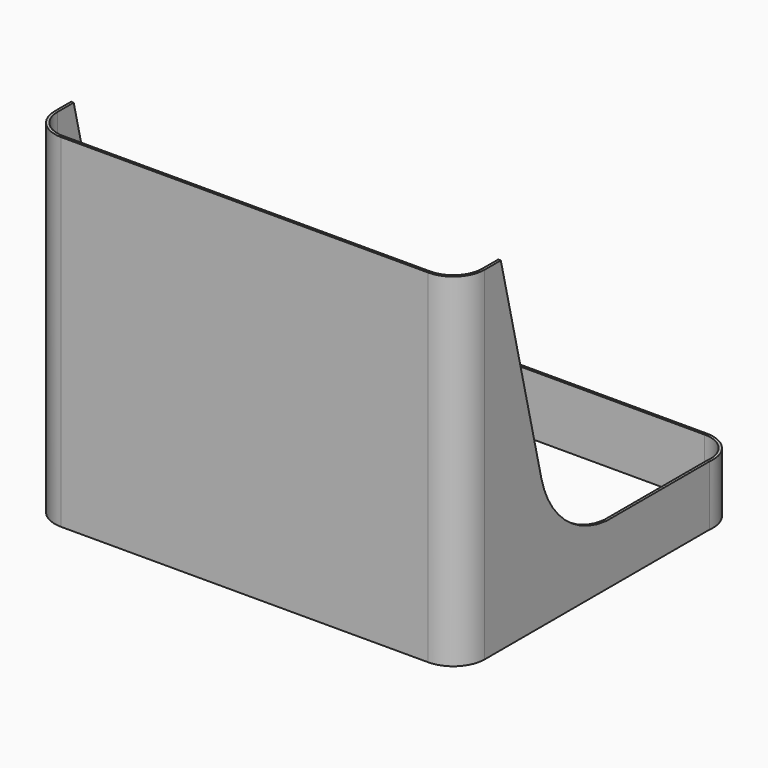
from build123d import *

# Parameters (mm, degrees)
F1_DEPTH = 400
F3_DEPTH = 550
F4_DEPTH = 330


with BuildPart() as f1:
    # F0 (on Top) → F1 (new body)
    with BuildSketch(Plane.XY):
        with BuildLine():
            Line((214.4711060817, 211.0624126145), (-213.2998602418, 211.0624126145))
            ThreePointArc((-213.2998602418, 211.0624126145), (-241.0972159396, 198.6720372021), (-249.9143754115, 169.5434930316))
            Line((-249.9143754115, 169.5434930316), (-249.9143754115, -158.3375933319))
            ThreePointArc((-249.9143754115, -158.3375933319), (-239.1857706386, -184.2264108639), (-213.289735862, -194.9375833684))
            Line((-213.289735862, -194.9375833684), (214.510264138, -194.6495638067))
            ThreePointArc((214.510264138, -194.6495638067), (240.3744404519, -183.9209673287), (251.0856212514, -158.0495737702))
            Line((251.0856212514, -158.0495737702), (251.0856212514, 169.5434930316))
            ThreePointArc((251.0856212514, 169.5434930316), (242.2684617794, 198.6720372021), (214.4711060817, 211.0624126145))
        make_face()
        with BuildLine():
            ThreePointArc((-246.9143770801, 169.7504262298), (-238.9080461949, 196.6185567775), (-213.3143770801, 208.0624142831))
            Line((-213.3143770801, 208.0624142831), (214.4856229199, 208.0624142831))
            ThreePointArc((214.4856229199, 208.0624142831), (240.0792920347, 196.6185567775), (248.0856229199, 169.7504262298))
            Line((248.0856229199, 169.7504262298), (248.0856229199, -158.0495737702))
            ThreePointArc((248.0856229199, -158.0495737702), (238.2524073114, -181.8003623821), (214.5082443671, -191.6495661551))
            Line((214.5082443671, -191.6495661551), (-213.2917556329, -191.9375857169))
            ThreePointArc((-213.2917556329, -191.9375857169), (-237.065165692, -182.1043777234), (-246.9143770801, -158.3375933319))
            Line((-246.9143770801, -158.3375933319), (-246.9143770801, 169.7504262298))
        make_face(mode=Mode.SUBTRACT)
    extrude(amount=F1_DEPTH)

    # F2 (on face) → F3 (cut)
    with BuildSketch(Plane.YZ.offset(251.0856212514)):
        with BuildLine():
            Line((169.5434930316, 400), (-134.6142441034, 400))
            Line((-134.6142441034, 400), (-75.4682049155, 152.0536094904))
            ThreePointArc((-75.4682049155, 152.0536094904), (-41.2013099843, 95.6971256436), (19.5434930316, 70))
            Line((19.5434930316, 70), (169.5434930316, 70))
            Line((169.5434930316, 70), (169.5434930316, 400))
        make_face()
    extrude(amount=-F3_DEPTH, mode=Mode.SUBTRACT)

    # F4 (cut): a face of the model
    f4_faces = [f1.faces().sort_by_distance(p)[0] for p in [
        (241.8909190901, 198.3390915797, 400),
    ]]
    extrude(f4_faces, amount=-F4_DEPTH, mode=Mode.SUBTRACT)


solid = f1.part
